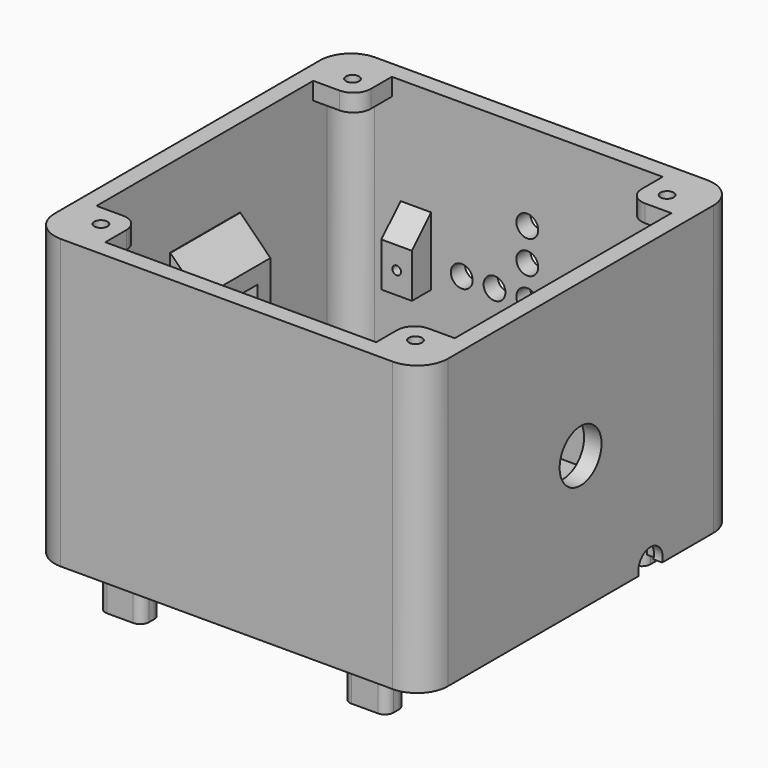
from build123d import *

# Parameters (mm, degrees)
BOX047_W                   = 8
BOX047_H                   = 12.5
BOX047_DEPTH               = 12.5
BOX046_W                   = 7
BOX046_H                   = 20
BOX046_DEPTH               = 27
CHAMFER007_SIZE            = 6.9
CYLINDER034_R              = 6
CYLINDER034_DEPTH          = 4
CYLINDER035_R              = 6
CYLINDER035_DEPTH          = 4
CYLINDER032_R              = 2.5
CYLINDER032_DEPTH          = 4
CYLINDER026_R              = 2.5
CYLINDER026_DEPTH          = 4
CYLINDER029_R              = 2.5
CYLINDER029_DEPTH          = 4
CYLINDER031_R              = 2.5
CYLINDER031_DEPTH          = 4
CYLINDER027_R              = 2.5
CYLINDER027_DEPTH          = 4
CYLINDER028_R              = 2.5
CYLINDER028_DEPTH          = 4
CYLINDER033_R              = 2.5
CYLINDER033_DEPTH          = 4
CYLINDER030_R              = 2.5
CYLINDER030_DEPTH          = 4
CYLINDER025_R              = 2.5
CYLINDER025_DEPTH          = 4
BOX033_W                   = 2
BOX033_H                   = 45
BOX033_DEPTH               = 7
FILLET015_R                = 2
BOX036_W                   = 6
BOX036_H                   = 8
BOX036_DEPTH               = 3
CYLINDER023_R              = 1.5
CYLINDER023_DEPTH          = 10
CYLINDER021_R              = 1.5
CYLINDER021_DEPTH          = 10
CYLINDER022_R              = 1.5
CYLINDER022_DEPTH          = 10
CYLINDER020_R              = 1.5
CYLINDER020_DEPTH          = 10
BOX035_W                   = 6
BOX035_H                   = 8
BOX035_DEPTH               = 3
BOX028_W                   = 16
BOX028_H                   = 16
BOX028_DEPTH               = 2.25
CYLINDER015_R              = 3.5
CYLINDER015_DEPTH          = 10.5
BOX030_W                   = 2
BOX030_H                   = 19
BOX030_DEPTH               = 8
FILLET008_R                = 2
BOX026_W                   = 90
BOX026_H                   = 90
BOX026_DEPTH               = 66
BOX029_W                   = 82
BOX029_H                   = 82
BOX029_DEPTH               = 82
FILLET011_R                = 6
BOX027_W                   = 90
BOX027_H                   = 90
BOX027_DEPTH               = 90
FILLET010_R                = 7
CYLINDER040_R              = 1.5
CYLINDER040_DEPTH          = 8
BOX052_W                   = 10
BOX052_H                   = 10
BOX052_DEPTH               = 4
FILLET022_R                = 4
BOX049_W                   = 8
BOX049_H                   = 12.5
BOX049_DEPTH               = 12.5
BOX048_W                   = 7
BOX048_H                   = 20
BOX048_DEPTH               = 27
CHAMFER008_SIZE            = 6.9
CHAMFER008_PLACEMENT_ANGLE = 180
BOX038_W                   = 10
BOX038_H                   = 0.5
BOX038_DEPTH               = 10
CYLINDER012_R              = 1
CYLINDER012_DEPTH          = 10
BOX022_W                   = 10
BOX022_H                   = 8
BOX022_DEPTH               = 20
CHAMFER004_SIZE            = 7.9
FILLET017_R                = 2
CYLINDER037_R              = 1
CYLINDER037_DEPTH          = 10
BOX044_W                   = 7
BOX044_H                   = 6
BOX044_DEPTH               = 16
CHAMFER005_SIZE            = 5.9
BOX040_W                   = 10
BOX040_H                   = 0.5
BOX040_DEPTH               = 10
CYLINDER011_R              = 1
CYLINDER011_DEPTH          = 10
BOX020_W                   = 10
BOX020_H                   = 6
BOX020_DEPTH               = 20
CHAMFER001_SIZE            = 5.9
FILLET019_R                = 2
CYLINDER038_R              = 1.5
CYLINDER038_DEPTH          = 8
BOX050_W                   = 10
BOX050_H                   = 10
BOX050_DEPTH               = 4
FILLET020_R                = 4
CYLINDER036_R              = 1
CYLINDER036_DEPTH          = 10
BOX045_W                   = 7
BOX045_H                   = 6
BOX045_DEPTH               = 16
CHAMFER006_SIZE            = 5.9
CYLINDER041_R              = 1.5
CYLINDER041_DEPTH          = 8
BOX053_W                   = 10
BOX053_H                   = 10
BOX053_DEPTH               = 4
FILLET023_R                = 4
CYLINDER039_R              = 1.5
CYLINDER039_DEPTH          = 8
BOX051_W                   = 10
BOX051_H                   = 10
BOX051_DEPTH               = 4
FILLET021_R                = 4
BOX039_W                   = 10
BOX039_H                   = 0.5
BOX039_DEPTH               = 10
CYLINDER014_R              = 1
CYLINDER014_DEPTH          = 10
BOX019_W                   = 10
BOX019_H                   = 6
BOX019_DEPTH               = 20
CHAMFER002_SIZE            = 5.9
FILLET018_R                = 2
BOX037_W                   = 10
BOX037_H                   = 0.5
BOX037_DEPTH               = 10
CYLINDER013_R              = 1
CYLINDER013_DEPTH          = 10
BOX021_W                   = 10
BOX021_H                   = 8
BOX021_DEPTH               = 20
CHAMFER003_SIZE            = 7.9
FILLET016_R                = 2


with BuildPart() as cube027:
    # Box047 → Box047 (new body)
    with BuildSketch(Plane(origin=(78, 38.75, 38.75), x_dir=(1, 0, 0), z_dir=(0, 0, 1))):
        with Locations((4, 6.25)):
            Rectangle(BOX047_W, BOX047_H)
    extrude(amount=BOX047_DEPTH)


with BuildPart() as chamfer007:
    # Box046 → Box046 (new body)
    with BuildSketch(Plane(origin=(79, 35, 35), x_dir=(1, 0, 0), z_dir=(0, 0, 1))):
        with Locations((3.5, 10)):
            Rectangle(BOX046_W, BOX046_H)
    extrude(amount=BOX046_DEPTH)

    # Cut040: cut Cube027
    add(cube027.part, mode=Mode.SUBTRACT)

    # Chamfer007
    chamfer007_edges = [chamfer007.edges().sort_by_distance(p)[0] for p in [
        (79, 45, 62),
    ]]
    chamfer(chamfer007_edges, length=CHAMFER007_SIZE)


with BuildPart() as cylinder032:
    # Cylinder034 → Cylinder034 (new body)
    with BuildSketch(Plane(origin=(0, 45, 45), x_dir=(0, 0, -1), z_dir=(1, 0, 0))):
        Circle(CYLINDER034_R)
    extrude(amount=CYLINDER034_DEPTH)


with BuildPart() as fusion003:
    # Cylinder035 → Cylinder035 (new body)
    with BuildSketch(Plane(origin=(86, 45, 45), x_dir=(0, 0, -1), z_dir=(1, 0, 0))):
        Circle(CYLINDER035_R)
    extrude(amount=CYLINDER035_DEPTH)

    # Fusion003: union Cylinder032
    add(cylinder032.part)


with BuildPart() as cylinder030:
    # Cylinder032 → Cylinder032 (new body)
    with BuildSketch(Plane(origin=(37.5, 90, 45), x_dir=(1, 0, 0), z_dir=(0, -1, 0))):
        Circle(CYLINDER032_R)
    extrude(amount=CYLINDER032_DEPTH)


with BuildPart() as cylinder024:
    # Cylinder026 → Cylinder026 (new body)
    with BuildSketch(Plane(origin=(60, 90, 45), x_dir=(1, 0, 0), z_dir=(0, -1, 0))):
        Circle(CYLINDER026_R)
    extrude(amount=CYLINDER026_DEPTH)


with BuildPart() as cylinder027:
    # Cylinder029 → Cylinder029 (new body)
    with BuildSketch(Plane(origin=(45, 90, 30), x_dir=(1, 0, 0), z_dir=(0, -1, 0))):
        Circle(CYLINDER029_R)
    extrude(amount=CYLINDER029_DEPTH)


with BuildPart() as cylinder029:
    # Cylinder031 → Cylinder031 (new body)
    with BuildSketch(Plane(origin=(45, 90, 37.5), x_dir=(1, 0, 0), z_dir=(0, -1, 0))):
        Circle(CYLINDER031_R)
    extrude(amount=CYLINDER031_DEPTH)


with BuildPart() as cylinder025:
    # Cylinder027 → Cylinder027 (new body)
    with BuildSketch(Plane(origin=(30, 90, 45), x_dir=(1, 0, 0), z_dir=(0, -1, 0))):
        Circle(CYLINDER027_R)
    extrude(amount=CYLINDER027_DEPTH)


with BuildPart() as cylinder026:
    # Cylinder028 → Cylinder028 (new body)
    with BuildSketch(Plane(origin=(45, 90, 60), x_dir=(1, 0, 0), z_dir=(0, -1, 0))):
        Circle(CYLINDER028_R)
    extrude(amount=CYLINDER028_DEPTH)


with BuildPart() as cylinder031:
    # Cylinder033 → Cylinder033 (new body)
    with BuildSketch(Plane(origin=(52.5, 90, 45), x_dir=(1, 0, 0), z_dir=(0, -1, 0))):
        Circle(CYLINDER033_R)
    extrude(amount=CYLINDER033_DEPTH)


with BuildPart() as cylinder028:
    # Cylinder030 → Cylinder030 (new body)
    with BuildSketch(Plane(origin=(45, 90, 52.5), x_dir=(1, 0, 0), z_dir=(0, -1, 0))):
        Circle(CYLINDER030_R)
    extrude(amount=CYLINDER030_DEPTH)


with BuildPart() as fusion002:
    # Cylinder025 → Cylinder025 (new body)
    with BuildSketch(Plane(origin=(45, 90, 45), x_dir=(1, 0, 0), z_dir=(0, -1, 0))):
        Circle(CYLINDER025_R)
    extrude(amount=CYLINDER025_DEPTH)

    # Fusion002: union Cylinder030, Cylinder024, Cylinder027, Cylinder029, Cylinder025, Cylinder026, Cylinder031, Cylinder028
    add(cylinder030.part)
    add(cylinder024.part)
    add(cylinder027.part)
    add(cylinder029.part)
    add(cylinder025.part)
    add(cylinder026.part)
    add(cylinder031.part)
    add(cylinder028.part)


with BuildPart() as fillet015:
    # Box033 → Box033 (new body)
    with BuildSketch(Plane(origin=(0, 27, 10), x_dir=(1, 0, 0), z_dir=(0, 0, 1))):
        with Locations((1, 22.5)):
            Rectangle(BOX033_W, BOX033_H)
    extrude(amount=BOX033_DEPTH)

    # Fillet015
    fillet015_edges = [fillet015.edges().sort_by_distance(p)[0] for p in [
        (1, 27, 10),
        (1, 27, 17),
        (1, 72, 10),
        (1, 72, 17),
    ]]
    fillet(fillet015_edges, radius=FILLET015_R)


with BuildPart() as uart002:
    # Box036 → Box036 (new body)
    with BuildSketch(Plane(origin=(0, 43, 11.75), x_dir=(1, 0, 0), z_dir=(0, 0, 1))):
        with Locations((3, 4)):
            Rectangle(BOX036_W, BOX036_H)
    extrude(amount=BOX036_DEPTH)


with BuildPart() as cylinder021:
    # Cylinder023 → Cylinder023 (new body)
    with BuildSketch(Plane(origin=(17, 7, 0), x_dir=(1, 0, 0), z_dir=(0, 0, 1))):
        Circle(CYLINDER023_R)
    extrude(amount=CYLINDER023_DEPTH)


with BuildPart() as cylinder019:
    # Cylinder021 → Cylinder021 (new body)
    with BuildSketch(Plane(origin=(17, 82, 0), x_dir=(1, 0, 0), z_dir=(0, 0, 1))):
        Circle(CYLINDER021_R)
    extrude(amount=CYLINDER021_DEPTH)


with BuildPart() as cylinder020:
    # Cylinder022 → Cylinder022 (new body)
    with BuildSketch(Plane(origin=(73, 82, 0), x_dir=(1, 0, 0), z_dir=(0, 0, 1))):
        Circle(CYLINDER022_R)
    extrude(amount=CYLINDER022_DEPTH)


with BuildPart() as cylinder018:
    # Cylinder020 → Cylinder020 (new body)
    with BuildSketch(Plane(origin=(73, 7, 0), x_dir=(1, 0, 0), z_dir=(0, 0, 1))):
        Circle(CYLINDER020_R)
    extrude(amount=CYLINDER020_DEPTH)


with BuildPart() as power002:
    # Box035 → Box035 (new body)
    with BuildSketch(Plane(origin=(0, 29, 11.75), x_dir=(1, 0, 0), z_dir=(0, 0, 1))):
        with Locations((3, 4)):
            Rectangle(BOX035_W, BOX035_H)
    extrude(amount=BOX035_DEPTH)


with BuildPart() as sd002:
    # Box028 → Box028 (new body)
    with BuildSketch(Plane(origin=(0, 54, 11.75), x_dir=(1, 0, 0), z_dir=(0, 0, 1))):
        with Locations((8, 8)):
            Rectangle(BOX028_W, BOX028_H)
    extrude(amount=BOX028_DEPTH)


with BuildPart() as headphone002:
    # Cylinder015 → Cylinder015 (new body)
    with BuildSketch(Plane(origin=(80, 65, 15), x_dir=(0, 0, -1), z_dir=(1, 0, 0))):
        Circle(CYLINDER015_R)
    extrude(amount=CYLINDER015_DEPTH)


with BuildPart() as fillet008:
    # Box030 → Box030 (new body)
    with BuildSketch(Plane(origin=(86, 50, 11), x_dir=(1, 0, 0), z_dir=(0, 0, 1))):
        with Locations((1, 9.5)):
            Rectangle(BOX030_W, BOX030_H)
    extrude(amount=BOX030_DEPTH)

    # Fillet008
    fillet008_edges = [fillet008.edges().sort_by_distance(p)[0] for p in [
        (87, 50, 11),
        (87, 50, 19),
        (87, 69, 11),
        (87, 69, 19),
    ]]
    fillet(fillet008_edges, radius=FILLET008_R)


with BuildPart() as cube014:
    # Box026 → Box026 (new body)
    with BuildSketch(Plane.XY.offset(14)):
        with Locations((45, 45)):
            Rectangle(BOX026_W, BOX026_H)
    extrude(amount=BOX026_DEPTH)


with BuildPart() as fillet011:
    # Box029 → Box029 (new body)
    with BuildSketch(Plane.XY):
        with Locations((41, 41)):
            Rectangle(BOX029_W, BOX029_H)
    extrude(amount=BOX029_DEPTH)

    # Fillet011
    fillet011_edges = [fillet011.edges().sort_by_distance(p)[0] for p in [
        (0, 0, 41),
        (0, 41, 82),
        (0, 82, 41),
        (82, 0, 41),
        (82, 41, 82),
        (82, 82, 41),
        (41, 0, 82),
        (41, 82, 82),
    ]]
    fillet(fillet011_edges, radius=FILLET011_R)


with BuildPart() as fillet011_1:
    # Fillet011 placement: moved
    add(fillet011.part.moved(Location((4, 4, 4))))


with BuildPart() as cut039:
    # Box027 → Box027 (new body)
    with BuildSketch(Plane.XY):
        with Locations((45, 45)):
            Rectangle(BOX027_W, BOX027_H)
    extrude(amount=BOX027_DEPTH)

    # Fillet010
    fillet010_edges = [cut039.edges().sort_by_distance(p)[0] for p in [
        (0, 0, 45),
        (0, 45, 90),
        (0, 90, 45),
        (90, 0, 45),
        (90, 45, 90),
        (90, 90, 45),
        (45, 0, 90),
        (45, 90, 90),
    ]]
    fillet(fillet010_edges, radius=FILLET010_R)

    # Cut016: cut Fillet011
    add(fillet011_1.part, mode=Mode.SUBTRACT)

    # Common001: intersect Cube014
    add(cube014.part, mode=Mode.INTERSECT)

    # Cut019: cut Fillet008
    add(fillet008.part, mode=Mode.SUBTRACT)

    # Cut018: cut Headphone002
    add(headphone002.part, mode=Mode.SUBTRACT)

    # Cut024: cut sd002
    add(sd002.part, mode=Mode.SUBTRACT)

    # Cut025: cut power002
    add(power002.part, mode=Mode.SUBTRACT)

    # Cut029: cut Cylinder018
    add(cylinder018.part, mode=Mode.SUBTRACT)

    # Cut028: cut Cylinder020
    add(cylinder020.part, mode=Mode.SUBTRACT)

    # Cut027: cut Cylinder019
    add(cylinder019.part, mode=Mode.SUBTRACT)

    # Cut026: cut Cylinder021
    add(cylinder021.part, mode=Mode.SUBTRACT)

    # Cut023: cut uart002
    add(uart002.part, mode=Mode.SUBTRACT)

    # Cut020: cut Fillet015
    add(fillet015.part, mode=Mode.SUBTRACT)

    # Cut038: cut Fusion002
    add(fusion002.part, mode=Mode.SUBTRACT)

    # Cut039: cut Fusion003
    add(fusion003.part, mode=Mode.SUBTRACT)


with BuildPart() as cylinder038:
    # Cylinder040 → Cylinder040 (new body)
    with BuildSketch(Plane(origin=(9, 81, 72), x_dir=(1, 0, 0), z_dir=(0, 0, 1))):
        Circle(CYLINDER040_R)
    extrude(amount=CYLINDER040_DEPTH)


with BuildPart() as cut045:
    # Box052 → Box052 (new body)
    with BuildSketch(Plane(origin=(4, 76, 76), x_dir=(1, 0, 0), z_dir=(0, 0, 1))):
        with Locations((5, 5)):
            Rectangle(BOX052_W, BOX052_H)
    extrude(amount=BOX052_DEPTH)

    # Fillet022
    fillet022_edges = [cut045.edges().sort_by_distance(p)[0] for p in [
        (14, 76, 78),
    ]]
    fillet(fillet022_edges, radius=FILLET022_R)

    # Cut045: cut Cylinder038
    add(cylinder038.part, mode=Mode.SUBTRACT)


with BuildPart() as cube029:
    # Box049 → Box049 (new body)
    with BuildSketch(Plane(origin=(78, 38.75, 38.75), x_dir=(1, 0, 0), z_dir=(0, 0, 1))):
        with Locations((4, 6.25)):
            Rectangle(BOX049_W, BOX049_H)
    extrude(amount=BOX049_DEPTH)


with BuildPart() as chamfer008:
    # Box048 → Box048 (new body)
    with BuildSketch(Plane(origin=(79, 35, 35), x_dir=(1, 0, 0), z_dir=(0, 0, 1))):
        with Locations((3.5, 10)):
            Rectangle(BOX048_W, BOX048_H)
    extrude(amount=BOX048_DEPTH)

    # Cut041: cut Cube029
    add(cube029.part, mode=Mode.SUBTRACT)

    # Chamfer008
    chamfer008_edges = [chamfer008.edges().sort_by_distance(p)[0] for p in [
        (79, 45, 62),
    ]]
    chamfer(chamfer008_edges, length=CHAMFER008_SIZE)


with BuildPart() as chamfer008_1:
    # Chamfer008 placement: moved
    add(chamfer008.part.moved(Location((90, 90, 0))).rotate(Axis((90, 90, 0), (0, 0, 1)), CHAMFER008_PLACEMENT_ANGLE))


with BuildPart() as cube018:
    # Box038 → Box038 (new body)
    with BuildSketch(Plane(origin=(68, 85.5, 4), x_dir=(1, 0, 0), z_dir=(0, 0, 1))):
        with Locations((5, 0.25)):
            Rectangle(BOX038_W, BOX038_H)
    extrude(amount=BOX038_DEPTH)


with BuildPart() as cylinder011:
    # Cylinder012 → Cylinder012 (new body)
    with BuildSketch(Plane(origin=(73, 82, 5), x_dir=(1, 0, 0), z_dir=(0, 0, 1))):
        Circle(CYLINDER012_R)
    extrude(amount=CYLINDER012_DEPTH)


with BuildPart() as fillet017:
    # Box022 → Box022 (new body)
    with BuildSketch(Plane(origin=(68, 78, 5), x_dir=(1, 0, 0), z_dir=(0, 0, 1))):
        with Locations((5, 4)):
            Rectangle(BOX022_W, BOX022_H)
    extrude(amount=BOX022_DEPTH)

    # Chamfer004
    chamfer004_edges = [fillet017.edges().sort_by_distance(p)[0] for p in [
        (73, 78, 25),
    ]]
    chamfer(chamfer004_edges, length=CHAMFER004_SIZE)

    # Cut033: cut Cylinder011
    add(cylinder011.part, mode=Mode.SUBTRACT)

    # Cut035: cut Cube018
    add(cube018.part, mode=Mode.SUBTRACT)

    # Fillet017
    fillet017_edges = [fillet017.edges().sort_by_distance(p)[0] for p in [
        (68, 85.5, 9.5),
        (68, 78, 11.05),
        (78, 85.5, 9.5),
        (78, 78, 11.05),
    ]]
    fillet(fillet017_edges, radius=FILLET017_R)


with BuildPart() as cylinder035:
    # Cylinder037 → Cylinder037 (new body)
    with BuildSketch(Plane(origin=(19.5, 89, 45), x_dir=(1, 0, 0), z_dir=(0, -1, 0))):
        Circle(CYLINDER037_R)
    extrude(amount=CYLINDER037_DEPTH)


with BuildPart() as cut042:
    # Box044 → Box044 (new body)
    with BuildSketch(Plane(origin=(16, 80.5, 40), x_dir=(1, 0, 0), z_dir=(0, 0, 1))):
        with Locations((3.5, 3)):
            Rectangle(BOX044_W, BOX044_H)
    extrude(amount=BOX044_DEPTH)

    # Chamfer005
    chamfer005_edges = [cut042.edges().sort_by_distance(p)[0] for p in [
        (19.5, 80.5, 56),
    ]]
    chamfer(chamfer005_edges, length=CHAMFER005_SIZE)

    # Cut042: cut Cylinder035
    add(cylinder035.part, mode=Mode.SUBTRACT)


with BuildPart() as cube020:
    # Box040 → Box040 (new body)
    with BuildSketch(Plane(origin=(68, 4, 4), x_dir=(1, 0, 0), z_dir=(0, 0, 1))):
        with Locations((5, 0.25)):
            Rectangle(BOX040_W, BOX040_H)
    extrude(amount=BOX040_DEPTH)


with BuildPart() as cylinder008:
    # Cylinder011 → Cylinder011 (new body)
    with BuildSketch(Plane(origin=(73, 7, 5), x_dir=(1, 0, 0), z_dir=(0, 0, 1))):
        Circle(CYLINDER011_R)
    extrude(amount=CYLINDER011_DEPTH)


with BuildPart() as fillet019:
    # Box020 → Box020 (new body)
    with BuildSketch(Plane(origin=(68, 4, 5), x_dir=(1, 0, 0), z_dir=(0, 0, 1))):
        with Locations((5, 3)):
            Rectangle(BOX020_W, BOX020_H)
    extrude(amount=BOX020_DEPTH)

    # Chamfer001
    chamfer001_edges = [fillet019.edges().sort_by_distance(p)[0] for p in [
        (73, 10, 25),
    ]]
    chamfer(chamfer001_edges, length=CHAMFER001_SIZE)

    # Cut030: cut Cylinder008
    add(cylinder008.part, mode=Mode.SUBTRACT)

    # Cut034: cut Cube020
    add(cube020.part, mode=Mode.SUBTRACT)

    # Fillet019
    fillet019_edges = [fillet019.edges().sort_by_distance(p)[0] for p in [
        (68, 10, 12.05),
        (68, 4.5, 9.5),
        (78, 10, 12.05),
        (78, 4.5, 9.5),
    ]]
    fillet(fillet019_edges, radius=FILLET019_R)


with BuildPart() as cylinder036:
    # Cylinder038 → Cylinder038 (new body)
    with BuildSketch(Plane(origin=(9, 9, 72), x_dir=(1, 0, 0), z_dir=(0, 0, 1))):
        Circle(CYLINDER038_R)
    extrude(amount=CYLINDER038_DEPTH)


with BuildPart() as cut047:
    # Box050 → Box050 (new body)
    with BuildSketch(Plane(origin=(4, 4, 76), x_dir=(1, 0, 0), z_dir=(0, 0, 1))):
        with Locations((5, 5)):
            Rectangle(BOX050_W, BOX050_H)
    extrude(amount=BOX050_DEPTH)

    # Fillet020
    fillet020_edges = [cut047.edges().sort_by_distance(p)[0] for p in [
        (14, 14, 78),
    ]]
    fillet(fillet020_edges, radius=FILLET020_R)

    # Cut047: cut Cylinder036
    add(cylinder036.part, mode=Mode.SUBTRACT)


with BuildPart() as cylinder034:
    # Cylinder036 → Cylinder036 (new body)
    with BuildSketch(Plane(origin=(70.5, 89, 45), x_dir=(1, 0, 0), z_dir=(0, -1, 0))):
        Circle(CYLINDER036_R)
    extrude(amount=CYLINDER036_DEPTH)


with BuildPart() as cut043:
    # Box045 → Box045 (new body)
    with BuildSketch(Plane(origin=(67, 80.5, 40), x_dir=(1, 0, 0), z_dir=(0, 0, 1))):
        with Locations((3.5, 3)):
            Rectangle(BOX045_W, BOX045_H)
    extrude(amount=BOX045_DEPTH)

    # Chamfer006
    chamfer006_edges = [cut043.edges().sort_by_distance(p)[0] for p in [
        (70.5, 80.5, 56),
    ]]
    chamfer(chamfer006_edges, length=CHAMFER006_SIZE)

    # Cut043: cut Cylinder034
    add(cylinder034.part, mode=Mode.SUBTRACT)


with BuildPart() as cylinder039:
    # Cylinder041 → Cylinder041 (new body)
    with BuildSketch(Plane(origin=(81, 81, 72), x_dir=(1, 0, 0), z_dir=(0, 0, 1))):
        Circle(CYLINDER041_R)
    extrude(amount=CYLINDER041_DEPTH)


with BuildPart() as cut044:
    # Box053 → Box053 (new body)
    with BuildSketch(Plane(origin=(76, 76, 76), x_dir=(1, 0, 0), z_dir=(0, 0, 1))):
        with Locations((5, 5)):
            Rectangle(BOX053_W, BOX053_H)
    extrude(amount=BOX053_DEPTH)

    # Fillet023
    fillet023_edges = [cut044.edges().sort_by_distance(p)[0] for p in [
        (76, 76, 78),
    ]]
    fillet(fillet023_edges, radius=FILLET023_R)

    # Cut044: cut Cylinder039
    add(cylinder039.part, mode=Mode.SUBTRACT)


with BuildPart() as cylinder037:
    # Cylinder039 → Cylinder039 (new body)
    with BuildSketch(Plane(origin=(81, 9, 72), x_dir=(1, 0, 0), z_dir=(0, 0, 1))):
        Circle(CYLINDER039_R)
    extrude(amount=CYLINDER039_DEPTH)


with BuildPart() as cut046:
    # Box051 → Box051 (new body)
    with BuildSketch(Plane(origin=(76, 4, 76), x_dir=(1, 0, 0), z_dir=(0, 0, 1))):
        with Locations((5, 5)):
            Rectangle(BOX051_W, BOX051_H)
    extrude(amount=BOX051_DEPTH)

    # Fillet021
    fillet021_edges = [cut046.edges().sort_by_distance(p)[0] for p in [
        (76, 14, 78),
    ]]
    fillet(fillet021_edges, radius=FILLET021_R)

    # Cut046: cut Cylinder037
    add(cylinder037.part, mode=Mode.SUBTRACT)


with BuildPart() as cube019:
    # Box039 → Box039 (new body)
    with BuildSketch(Plane(origin=(12, 4, 4), x_dir=(1, 0, 0), z_dir=(0, 0, 1))):
        with Locations((5, 0.25)):
            Rectangle(BOX039_W, BOX039_H)
    extrude(amount=BOX039_DEPTH)


with BuildPart() as cylinder013:
    # Cylinder014 → Cylinder014 (new body)
    with BuildSketch(Plane(origin=(17, 7, 5), x_dir=(1, 0, 0), z_dir=(0, 0, 1))):
        Circle(CYLINDER014_R)
    extrude(amount=CYLINDER014_DEPTH)


with BuildPart() as fillet018:
    # Box019 → Box019 (new body)
    with BuildSketch(Plane(origin=(12, 4, 5), x_dir=(1, 0, 0), z_dir=(0, 0, 1))):
        with Locations((5, 3)):
            Rectangle(BOX019_W, BOX019_H)
    extrude(amount=BOX019_DEPTH)

    # Chamfer002
    chamfer002_edges = [fillet018.edges().sort_by_distance(p)[0] for p in [
        (17, 10, 25),
    ]]
    chamfer(chamfer002_edges, length=CHAMFER002_SIZE)

    # Cut031: cut Cylinder013
    add(cylinder013.part, mode=Mode.SUBTRACT)

    # Cut037: cut Cube019
    add(cube019.part, mode=Mode.SUBTRACT)

    # Fillet018
    fillet018_edges = [fillet018.edges().sort_by_distance(p)[0] for p in [
        (12, 10, 12.05),
        (12, 4.5, 9.5),
        (22, 10, 12.05),
        (22, 4.5, 9.5),
    ]]
    fillet(fillet018_edges, radius=FILLET018_R)


with BuildPart() as cube017:
    # Box037 → Box037 (new body)
    with BuildSketch(Plane(origin=(12, 85.5, 4), x_dir=(1, 0, 0), z_dir=(0, 0, 1))):
        with Locations((5, 0.25)):
            Rectangle(BOX037_W, BOX037_H)
    extrude(amount=BOX037_DEPTH)


with BuildPart() as cylinder012:
    # Cylinder013 → Cylinder013 (new body)
    with BuildSketch(Plane(origin=(17, 82, 5), x_dir=(1, 0, 0), z_dir=(0, 0, 1))):
        Circle(CYLINDER013_R)
    extrude(amount=CYLINDER013_DEPTH)


with BuildPart() as middle001:
    # Box021 → Box021 (new body)
    with BuildSketch(Plane(origin=(12, 78, 5), x_dir=(1, 0, 0), z_dir=(0, 0, 1))):
        with Locations((5, 4)):
            Rectangle(BOX021_W, BOX021_H)
    extrude(amount=BOX021_DEPTH)

    # Chamfer003
    chamfer003_edges = [middle001.edges().sort_by_distance(p)[0] for p in [
        (17, 78, 25),
    ]]
    chamfer(chamfer003_edges, length=CHAMFER003_SIZE)

    # Cut032: cut Cylinder012
    add(cylinder012.part, mode=Mode.SUBTRACT)

    # Cut036: cut Cube017
    add(cube017.part, mode=Mode.SUBTRACT)

    # Fillet016
    fillet016_edges = [middle001.edges().sort_by_distance(p)[0] for p in [
        (12, 85.5, 9.5),
        (12, 78, 11.05),
        (22, 85.5, 9.5),
        (22, 78, 11.05),
    ]]
    fillet(fillet016_edges, radius=FILLET016_R)

    # Fusion004: union Chamfer007, Cut039, Cut045, Chamfer008, Fillet017, Cut042, Fillet019, Cut047, Cut043, Cut044, Cut046, Fillet018
    add(chamfer007.part)
    add(cut039.part)
    add(cut045.part)
    add(chamfer008_1.part)
    add(fillet017.part)
    add(cut042.part)
    add(fillet019.part)
    add(cut047.part)
    add(cut043.part)
    add(cut044.part)
    add(cut046.part)
    add(fillet018.part)


solid = middle001.part
